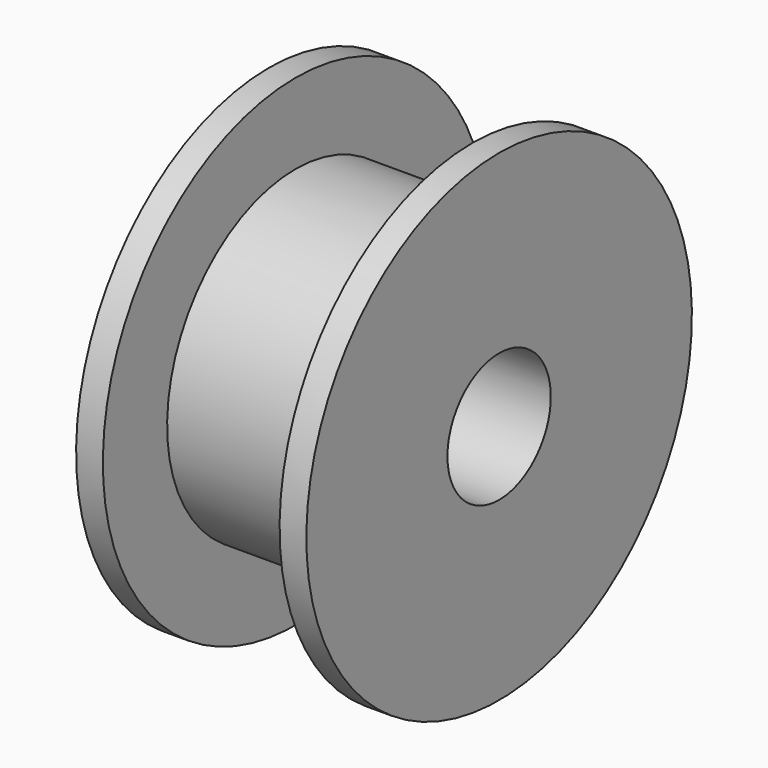
from build123d import *

# Parameters (mm, degrees)
F2_R     = 2.413
F3_DEPTH = 25.4


with BuildPart() as f1:
    # F0 (on Front) → F1 (revolve)
    with BuildSketch(Plane.XZ):
        Polygon((6.6, 9), (6.6, 6), (0, 6), (0, 9), (-1, 9), (-1, 0), (0, 0), (6.6, 0), (7.6, 0), (7.6, 9), align=None)
    revolve(axis=Axis((3.3, 0, 0), (-1, 0, 0)))

    # F2 (on face) → F3 (cut)
    with BuildSketch(Plane(origin=(-1, 0, 0), x_dir=(0, -1, 0), z_dir=(-1, 0, 0))):
        Circle(F2_R)
    extrude(amount=-F3_DEPTH, mode=Mode.SUBTRACT)


solid = f1.part
